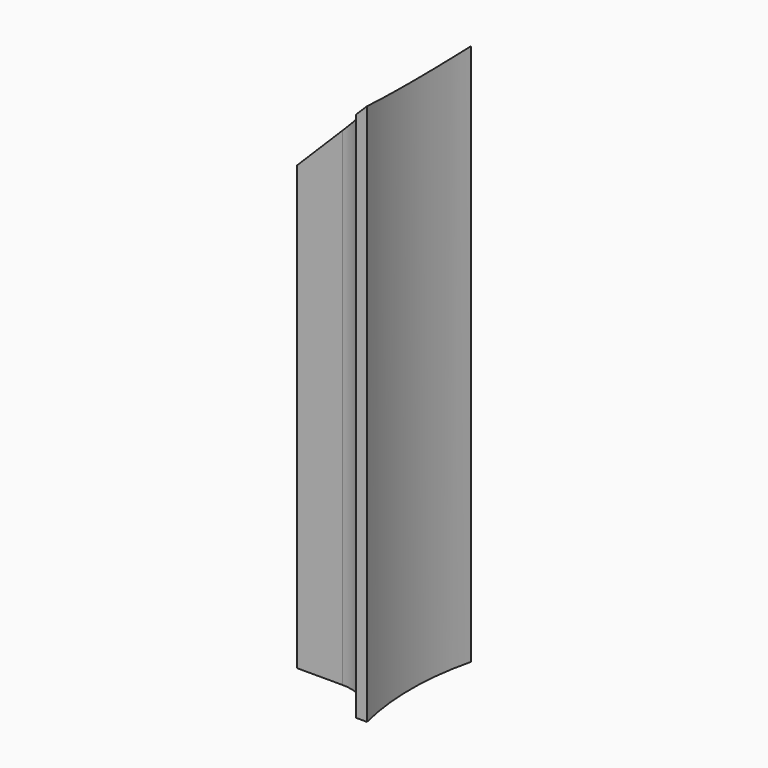
from build123d import *

# Parameters (mm, degrees)
PAD003_DEPTH            = 50
FILLET002_R             = 4
POCKET002_DEPTH         = 8.601
POCKET002_DEPTH_BACK    = 3.401
BODY004_PLACEMENT_ANGLE = 180


with BuildPart() as part:
    # Sketch006 → Pad003 (new body)
    with BuildSketch(Plane.XY):
        with BuildLine():
            ThreePointArc((24.269322, -6), (25, 0), (24.269322, 6))
            Line((24.269322, 6), (25.298221, 6))
            ThreePointArc((25.869673, 2.6), (25.640366, 4.309482), (25.298221, 6))
            Line((25.869673, 2.6), (33.451654, 2.6))
            Line((33.451654, 2.6), (33.451654, 1.6))
            Line((33.451654, 1.6), (26.451654, 1.6))
            Line((26.451654, 1.6), (26.451654, -1.6))
            Line((26.451654, -1.6), (33.451654, -1.6))
            Line((33.451654, -1.6), (33.451654, -2.6))
            Line((33.451654, -2.6), (25.869673, -2.6))
            ThreePointArc((25.298221, -6), (25.640366, -4.309482), (25.869673, -2.6))
            Line((24.269322, -6), (25.298221, -6))
        make_face()
    extrude(amount=PAD003_DEPTH)

    # Fillet002
    fillet002_edges = [part.edges().sort_by_distance(p)[0] for p in [
        (25.869673, -2.6, 25),
        (25.869673, 2.6, 25),
    ]]
    fillet(fillet002_edges, radius=FILLET002_R)

    # Sketch007 (on Face15 of Fillet002) → Pocket002 (cut, two sides)
    with BuildSketch(Plane.XZ.offset(2.6)) as pocket002_sk:
        Polygon((33.451654, 50), (33.451654, 40.817668), (24.269322, 50), align=None)
    extrude(amount=-POCKET002_DEPTH, mode=Mode.SUBTRACT)
    extrude(pocket002_sk.sketch, amount=POCKET002_DEPTH_BACK, mode=Mode.SUBTRACT)


with BuildPart() as part_1:
    # Body004 placement: moved
    add(part.part.moved(Location((-15, 0, 0))).rotate(Axis((-15, 0, 0), (0, 0, 1)), BODY004_PLACEMENT_ANGLE))


solid = part_1.part
